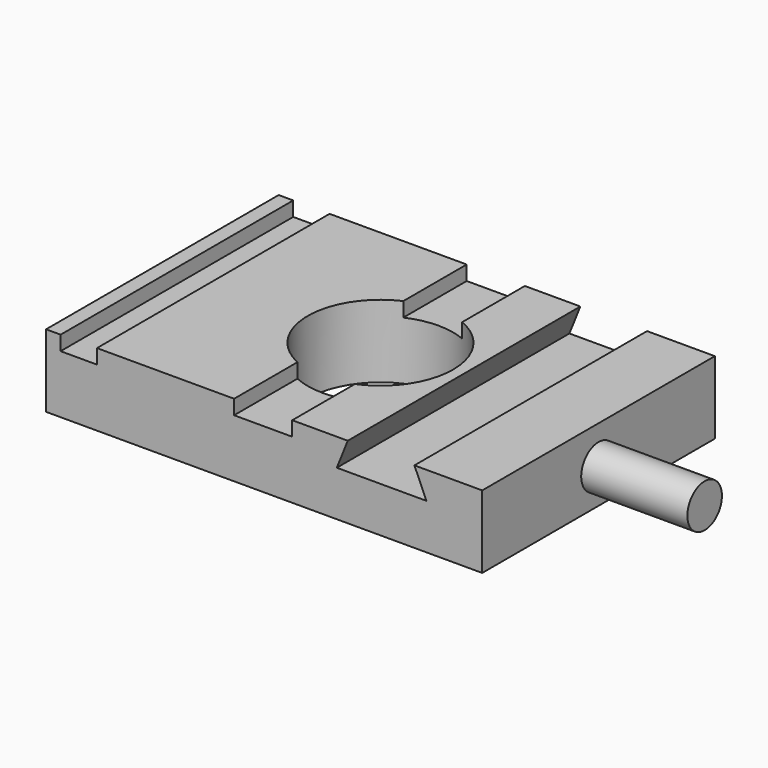
from build123d import *

# Parameters (mm, degrees)
F0_W     = 76.2
F0_H     = 50.8
F0_R     = 12.7
F1_DEPTH = 12.7
F2_W     = 6.35
F2_H     = 50.8
F3_DEPTH = 2.54
F4_R     = 3.776277
F5_DEPTH = 18.542
F7_DEPTH = 50.801


with BuildPart() as f1:
    # F0 (on Top) → F1 (new body)
    with BuildSketch(Plane.XY):
        Rectangle(F0_W, F0_H)
        Circle(F0_R, mode=Mode.SUBTRACT)
    extrude(amount=F1_DEPTH)

    # F2 (on face) → F3 (cut)
    with BuildSketch(Plane.XY.offset(12.7)):
        with Locations((-32.385, 0)):
            Rectangle(F2_W, F2_H)
        with BuildLine():
            Line((-5.251254, -11.563491), (-5.251254, -25.4))
            Line((-5.251254, -25.4), (0, -25.4))
            Line((0, -25.4), (0, -12.7))
            ThreePointArc((0, -12.7), (-2.686416, -12.412621), (-5.251254, -11.563491))
        make_face()
        with BuildLine():
            Line((0, -12.7), (0, -25.4))
            Line((0, -25.4), (4.908746, -25.4))
            Line((4.908746, -25.4), (4.908746, -11.712993))
            ThreePointArc((4.908746, -11.712993), (2.503496, -12.450803), (0, -12.7))
        make_face()
        with BuildLine():
            Line((0, 25.4), (-5.251254, 25.4))
            Line((-5.251254, 25.4), (-5.251254, 11.563491))
            ThreePointArc((-5.251254, 11.563491), (-2.686416, 12.412621), (0, 12.7))
            Line((0, 12.7), (0, 25.4))
        make_face()
        with BuildLine():
            Line((4.908746, 25.4), (0, 25.4))
            Line((0, 25.4), (0, 12.7))
            ThreePointArc((0, 12.7), (2.503496, 12.450803), (4.908746, 11.712993))
            Line((4.908746, 11.712993), (4.908746, 25.4))
        make_face()
    extrude(amount=-F3_DEPTH, mode=Mode.SUBTRACT)

    # F4 (on face) → F5 (join)
    with BuildSketch(Plane.YZ.offset(38.1)):
        with Locations((0, 6.044753)):
            Circle(F4_R)
    extrude(amount=F5_DEPTH)

    # F6 (on face) → F7 (cut, through all)
    with BuildSketch(Plane.XZ.offset(25.4)):
        Polygon((26.256265, 12.7), (14.608031, 12.7), (12.698486, 7.924618), (28.356764, 7.924618), align=None)
    extrude(amount=-F7_DEPTH, mode=Mode.SUBTRACT)


solid = f1.part
